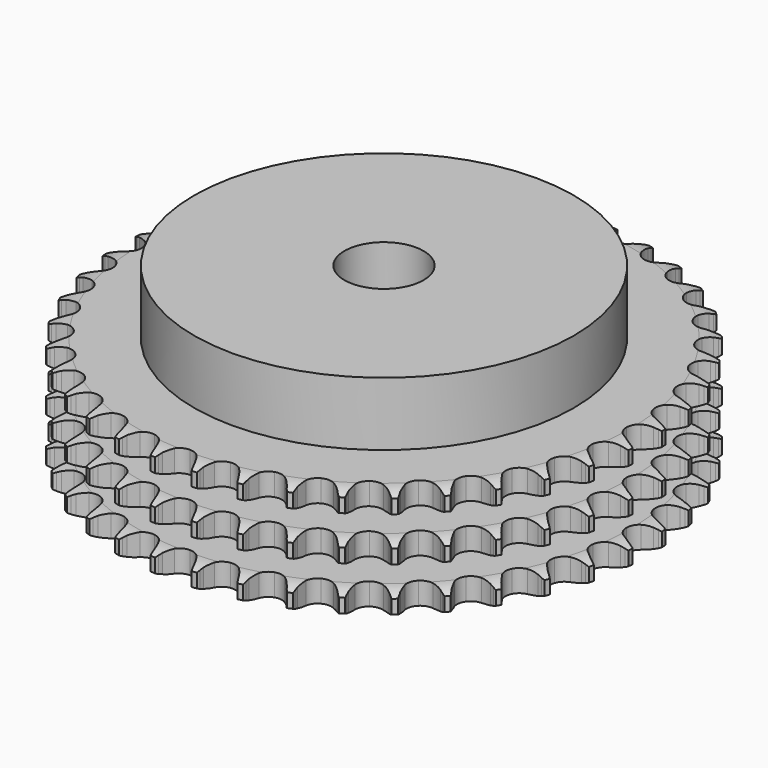
from build123d import *

# Parameters (mm, degrees)
PAD_DEPTH         = 34.9
SKETCH001_R       = 60
PAD001_DEPTH      = 55
SKETCH002_R       = 12.5
POCKET_DEPTH      = 0.001
POCKET_DEPTH_BACK = 55.001


with BuildPart() as part:
    # Sprocket → Pad (new body)
    with BuildSketch(Plane.XY):
        with BuildLine():
            ThreePointArc((-6.649012, 84.48371), (-5.927726, 83.470306), (-5.400458, 82.343705))
            Line((-5.400458, 82.343705), (-4.98558, 81.197617))
            ThreePointArc((-4.98558, 81.197617), (-4.32953, 79.727559), (-3.46814, 78.367604))
            ThreePointArc((-3.46814, 78.367604), (-1.941893, 77.081246), (0, 76.619517))
            ThreePointArc((0, 76.619517), (1.941893, 77.081246), (3.46814, 78.367604))
            ThreePointArc((3.46814, 78.367604), (4.32953, 79.727559), (4.98558, 81.197617))
            Line((4.98558, 81.197617), (5.400458, 82.343705))
            ThreePointArc((5.400458, 82.343705), (5.927726, 83.470306), (6.649012, 84.48371))
            ThreePointArc((6.649012, 84.48371), (7.202887, 83.369949), (7.547424, 82.174735))
            Line((7.547424, 82.174735), (7.777907, 80.977856))
            ThreePointArc((7.777907, 80.977856), (8.195912, 79.423268), (8.833953, 77.945305))
            ThreePointArc((8.833953, 77.945305), (10.140178, 76.436027), (11.985933, 75.676204))
            ThreePointArc((11.985933, 75.676204), (13.976149, 75.828469), (15.684836, 76.860232))
            Line((15.684836, 76.860232), (17.626305, 79.418023))
            ThreePointArc((17.626305, 79.418023), (17.906205, 79.959636), (18.215363, 80.4851))
            ThreePointArc((18.215363, 80.4851), (18.912379, 81.515347), (19.783316, 82.403441))
            ThreePointArc((19.783316, 82.403441), (20.15614, 81.216746), (20.309464, 79.98235))
            Line((20.309464, 79.98235), (20.349875, 78.764151))
            ThreePointArc((20.349875, 78.764151), (20.519543, 77.163313), (20.918524, 75.603734))
            ThreePointArc((20.918524, 75.603734), (21.972565, 73.9087), (23.676733, 72.869491))
            ThreePointArc((23.676733, 72.869491), (25.666265, 72.708543), (27.515318, 73.460306))
            Line((27.515318, 73.460306), (29.833012, 75.682894))
            ThreePointArc((29.833012, 75.682894), (30.194193, 76.174053), (30.581745, 76.644684))
            ThreePointArc((30.581745, 76.644684), (31.431346, 77.55321), (32.430489, 78.294125))
            ThreePointArc((32.430489, 78.294125), (32.613083, 77.063719), (32.571417, 75.820535))
            Line((32.571417, 75.820535), (32.420763, 74.611012))
            ThreePointArc((32.420763, 74.611012), (32.337915, 73.003341), (32.488012, 71.400549))
            ThreePointArc((32.488012, 71.400549), (33.263914, 69.561494), (34.784533, 68.26849))
            ThreePointArc((34.784533, 68.26849), (36.724393, 67.798292), (38.668283, 68.251544))
            Line((38.668283, 68.251544), (41.305131, 70.084201))
            ThreePointArc((41.305131, 70.084201), (41.7387, 70.512812), (42.195103, 70.917022))
            ThreePointArc((42.195103, 70.917022), (43.176369, 71.681456), (44.279115, 72.256949))
            ThreePointArc((44.279115, 72.256949), (44.266984, 71.013126), (44.031353, 69.791766))
            Line((44.031353, 69.791766), (43.693343, 68.620702))
            ThreePointArc((43.693343, 68.620702), (43.36002, 67.045784), (43.257538, 65.439245))
            ThreePointArc((43.257538, 65.439245), (43.736195, 63.501454), (45.035822, 61.986492))
            ThreePointArc((45.035822, 61.986492), (46.878245, 61.218622), (48.869106, 61.362202))
            Line((48.869106, 61.362202), (51.76018, 62.759802))
            ThreePointArc((51.76018, 62.759802), (52.255461, 63.115311), (52.769478, 63.443147))
            ThreePointArc((52.769478, 63.443147), (53.858246, 64.044666), (55.037443, 64.440566))
            ThreePointArc((55.037443, 64.440566), (54.830884, 63.213955), (54.407092, 62.044493))
            Line((54.407092, 62.044493), (53.890048, 60.940723))
            ThreePointArc((53.890048, 60.940723), (53.314458, 59.437338), (52.961919, 57.866609))
            ThreePointArc((52.961919, 57.866609), (53.131546, 55.877798), (54.17818, 54.17818))
            ThreePointArc((54.17818, 54.17818), (55.877798, 53.131546), (57.866609, 52.961919))
            Line((57.866609, 52.961919), (60.940723, 53.890048))
            ThreePointArc((60.940723, 53.890048), (61.48552, 54.163701), (62.044493, 54.407092))
            ThreePointArc((62.044493, 54.407092), (63.213955, 54.830884), (64.440566, 55.037443))
            ThreePointArc((64.440566, 55.037443), (64.044666, 53.858246), (63.443147, 52.769478))
            Line((63.443147, 52.769478), (62.759802, 51.76018))
            ThreePointArc((62.759802, 51.76018), (61.956116, 50.365347), (61.362202, 48.869106))
            ThreePointArc((61.362202, 48.869106), (61.218622, 46.878245), (61.986492, 45.035822))
            ThreePointArc((61.986492, 45.035822), (63.501454, 43.736195), (65.439245, 43.257538))
            Line((65.439245, 43.257538), (68.620702, 43.693343))
            ThreePointArc((68.620702, 43.693343), (69.2016, 43.878402), (69.791766, 44.031353))
            ThreePointArc((69.791766, 44.031353), (71.013126, 44.266984), (72.256949, 44.279115))
            ThreePointArc((72.256949, 44.279115), (71.681456, 43.176369), (70.917022, 42.195103))
            Line((70.917022, 42.195103), (70.084201, 41.305131))
            ThreePointArc((70.084201, 41.305131), (69.07221, 40.053194), (68.251544, 38.668283))
            ThreePointArc((68.251544, 38.668283), (67.798292, 36.724393), (68.26849, 34.784533))
            ThreePointArc((68.26849, 34.784533), (69.561494, 33.263914), (71.400549, 32.488012))
            Line((71.400549, 32.488012), (74.611012, 32.420763))
            ThreePointArc((74.611012, 32.420763), (75.213708, 32.512671), (75.820535, 32.571417))
            ThreePointArc((75.820535, 32.571417), (77.063719, 32.613083), (78.294125, 32.430489))
            ThreePointArc((78.294125, 32.430489), (77.55321, 31.431346), (76.644684, 30.581745))
            Line((76.644684, 30.581745), (75.682894, 29.833012))
            ThreePointArc((75.682894, 29.833012), (74.487516, 28.754798), (73.460306, 27.515318))
            ThreePointArc((73.460306, 27.515318), (72.708543, 25.666265), (72.869491, 23.676733))
            ThreePointArc((72.869491, 23.676733), (73.9087, 21.972565), (75.603734, 20.918524))
            Line((75.603734, 20.918524), (78.764151, 20.349875))
            ThreePointArc((78.764151, 20.349875), (79.373805, 20.346369), (79.98235, 20.309464))
            ThreePointArc((79.98235, 20.309464), (81.216746, 20.15614), (82.403441, 19.783316))
            ThreePointArc((82.403441, 19.783316), (81.515347, 18.912379), (80.4851, 18.215363))
            Line((80.4851, 18.215363), (79.418023, 17.626305))
            ThreePointArc((79.418023, 17.626305), (78.068693, 16.748364), (76.860232, 15.684836))
            ThreePointArc((76.860232, 15.684836), (75.828469, 13.976149), (75.676204, 11.985933))
            ThreePointArc((75.676204, 11.985933), (76.436027, 10.140178), (77.945305, 8.833953))
            Line((77.945305, 8.833953), (80.977856, 7.777907))
            ThreePointArc((80.977856, 7.777907), (81.579455, 7.679073), (82.174735, 7.547424))
            ThreePointArc((82.174735, 7.547424), (83.369949, 7.202887), (84.48371, 6.649012))
            ThreePointArc((84.48371, 6.649012), (83.470306, 5.927726), (82.343705, 5.400458))
            Line((82.343705, 5.400458), (81.197617, 4.98558))
            ThreePointArc((81.197617, 4.98558), (79.727559, 4.32953), (78.367604, 3.46814))
            ThreePointArc((78.367604, 3.46814), (77.081246, 1.941893), (76.619517, 0))
            ThreePointArc((76.619517, 0), (77.081246, -1.941893), (78.367604, -3.46814))
            Line((78.367604, -3.46814), (81.197617, -4.98558))
            ThreePointArc((81.197617, -4.98558), (81.776348, -5.177307), (82.343705, -5.400458))
            ThreePointArc((82.343705, -5.400458), (83.470306, -5.927726), (84.48371, -6.649012))
            ThreePointArc((84.48371, -6.649012), (83.369949, -7.202887), (82.174735, -7.547424))
            Line((82.174735, -7.547424), (80.977856, -7.777907))
            ThreePointArc((80.977856, -7.777907), (79.423268, -8.195912), (77.945305, -8.833953))
            ThreePointArc((77.945305, -8.833953), (76.436027, -10.140178), (75.676204, -11.985933))
            ThreePointArc((75.676204, -11.985933), (75.828469, -13.976149), (76.860232, -15.684836))
            Line((76.860232, -15.684836), (79.418023, -17.626305))
            ThreePointArc((79.418023, -17.626305), (79.959636, -17.906205), (80.4851, -18.215363))
            ThreePointArc((80.4851, -18.215363), (81.515347, -18.912379), (82.403441, -19.783316))
            ThreePointArc((82.403441, -19.783316), (81.216746, -20.15614), (79.98235, -20.309464))
            Line((79.98235, -20.309464), (78.764151, -20.349875))
            ThreePointArc((78.764151, -20.349875), (77.163313, -20.519543), (75.603734, -20.918524))
            ThreePointArc((75.603734, -20.918524), (73.9087, -21.972565), (72.869491, -23.676733))
            ThreePointArc((72.869491, -23.676733), (72.708543, -25.666265), (73.460306, -27.515318))
            Line((73.460306, -27.515318), (75.682894, -29.833012))
            ThreePointArc((75.682894, -29.833012), (76.174053, -30.194193), (76.644684, -30.581745))
            ThreePointArc((76.644684, -30.581745), (77.55321, -31.431346), (78.294125, -32.430489))
            ThreePointArc((78.294125, -32.430489), (77.063719, -32.613083), (75.820535, -32.571417))
            Line((75.820535, -32.571417), (74.611012, -32.420763))
            ThreePointArc((74.611012, -32.420763), (73.003341, -32.337915), (71.400549, -32.488012))
            ThreePointArc((71.400549, -32.488012), (69.561494, -33.263914), (68.26849, -34.784533))
            ThreePointArc((68.26849, -34.784533), (67.798292, -36.724393), (68.251544, -38.668283))
            Line((68.251544, -38.668283), (70.084201, -41.305131))
            ThreePointArc((70.084201, -41.305131), (70.512812, -41.7387), (70.917022, -42.195103))
            ThreePointArc((70.917022, -42.195103), (71.681456, -43.176369), (72.256949, -44.279115))
            ThreePointArc((72.256949, -44.279115), (71.013126, -44.266984), (69.791766, -44.031353))
            Line((69.791766, -44.031353), (68.620702, -43.693343))
            ThreePointArc((68.620702, -43.693343), (67.045784, -43.36002), (65.439245, -43.257538))
            ThreePointArc((65.439245, -43.257538), (63.501454, -43.736195), (61.986492, -45.035822))
            ThreePointArc((61.986492, -45.035822), (61.218622, -46.878245), (61.362202, -48.869106))
            Line((61.362202, -48.869106), (62.759802, -51.76018))
            ThreePointArc((62.759802, -51.76018), (63.115311, -52.255461), (63.443147, -52.769478))
            ThreePointArc((63.443147, -52.769478), (64.044666, -53.858246), (64.440566, -55.037443))
            ThreePointArc((64.440566, -55.037443), (63.213955, -54.830884), (62.044493, -54.407092))
            Line((62.044493, -54.407092), (60.940723, -53.890048))
            ThreePointArc((60.940723, -53.890048), (59.437338, -53.314458), (57.866609, -52.961919))
            ThreePointArc((57.866609, -52.961919), (55.877798, -53.131546), (54.17818, -54.17818))
            ThreePointArc((54.17818, -54.17818), (53.131546, -55.877798), (52.961919, -57.866609))
            Line((52.961919, -57.866609), (53.890048, -60.940723))
            ThreePointArc((53.890048, -60.940723), (54.163701, -61.48552), (54.407092, -62.044493))
            ThreePointArc((54.407092, -62.044493), (54.830884, -63.213955), (55.037443, -64.440566))
            ThreePointArc((55.037443, -64.440566), (53.858246, -64.044666), (52.769478, -63.443147))
            Line((52.769478, -63.443147), (51.76018, -62.759802))
            ThreePointArc((51.76018, -62.759802), (50.365347, -61.956116), (48.869106, -61.362202))
            ThreePointArc((48.869106, -61.362202), (46.878245, -61.218622), (45.035822, -61.986492))
            ThreePointArc((45.035822, -61.986492), (43.736195, -63.501454), (43.257538, -65.439245))
            Line((43.257538, -65.439245), (43.693343, -68.620702))
            ThreePointArc((43.693343, -68.620702), (43.878402, -69.2016), (44.031353, -69.791766))
            ThreePointArc((44.031353, -69.791766), (44.266984, -71.013126), (44.279115, -72.256949))
            ThreePointArc((44.279115, -72.256949), (43.176369, -71.681456), (42.195103, -70.917022))
            Line((42.195103, -70.917022), (41.305131, -70.084201))
            ThreePointArc((41.305131, -70.084201), (40.053194, -69.07221), (38.668283, -68.251544))
            ThreePointArc((38.668283, -68.251544), (36.724393, -67.798292), (34.784533, -68.26849))
            ThreePointArc((34.784533, -68.26849), (33.263914, -69.561494), (32.488012, -71.400549))
            Line((32.488012, -71.400549), (32.420763, -74.611012))
            ThreePointArc((32.420763, -74.611012), (32.512671, -75.213708), (32.571417, -75.820535))
            ThreePointArc((32.571417, -75.820535), (32.613083, -77.063719), (32.430489, -78.294125))
            ThreePointArc((32.430489, -78.294125), (31.431346, -77.55321), (30.581745, -76.644684))
            Line((30.581745, -76.644684), (29.833012, -75.682894))
            ThreePointArc((29.833012, -75.682894), (28.754798, -74.487516), (27.515318, -73.460306))
            ThreePointArc((27.515318, -73.460306), (25.666265, -72.708543), (23.676733, -72.869491))
            ThreePointArc((23.676733, -72.869491), (21.972565, -73.9087), (20.918524, -75.603734))
            Line((20.918524, -75.603734), (20.349875, -78.764151))
            ThreePointArc((20.349875, -78.764151), (20.346369, -79.373805), (20.309464, -79.98235))
            ThreePointArc((20.309464, -79.98235), (20.15614, -81.216746), (19.783316, -82.403441))
            ThreePointArc((19.783316, -82.403441), (18.912379, -81.515347), (18.215363, -80.4851))
            Line((18.215363, -80.4851), (17.626305, -79.418023))
            ThreePointArc((17.626305, -79.418023), (16.748364, -78.068693), (15.684836, -76.860232))
            ThreePointArc((15.684836, -76.860232), (13.976149, -75.828469), (11.985933, -75.676204))
            ThreePointArc((11.985933, -75.676204), (10.140178, -76.436027), (8.833953, -77.945305))
            Line((8.833953, -77.945305), (7.777907, -80.977856))
            ThreePointArc((7.777907, -80.977856), (7.679073, -81.579455), (7.547424, -82.174735))
            ThreePointArc((7.547424, -82.174735), (7.202887, -83.369949), (6.649012, -84.48371))
            ThreePointArc((6.649012, -84.48371), (5.927726, -83.470306), (5.400458, -82.343705))
            Line((5.400458, -82.343705), (4.98558, -81.197617))
            ThreePointArc((4.98558, -81.197617), (4.32953, -79.727559), (3.46814, -78.367604))
            ThreePointArc((3.46814, -78.367604), (1.941893, -77.081246), (0, -76.619517))
            ThreePointArc((0, -76.619517), (-1.941893, -77.081246), (-3.46814, -78.367604))
            Line((-3.46814, -78.367604), (-4.98558, -81.197617))
            ThreePointArc((-4.98558, -81.197617), (-5.177307, -81.776348), (-5.400458, -82.343705))
            ThreePointArc((-5.400458, -82.343705), (-5.927726, -83.470306), (-6.649012, -84.48371))
            ThreePointArc((-6.649012, -84.48371), (-7.202887, -83.369949), (-7.547424, -82.174735))
            Line((-7.547424, -82.174735), (-7.777907, -80.977856))
            ThreePointArc((-7.777907, -80.977856), (-8.195912, -79.423268), (-8.833953, -77.945305))
            ThreePointArc((-8.833953, -77.945305), (-10.140178, -76.436027), (-11.985933, -75.676204))
            ThreePointArc((-11.985933, -75.676204), (-13.976149, -75.828469), (-15.684836, -76.860232))
            Line((-15.684836, -76.860232), (-17.626305, -79.418023))
            ThreePointArc((-17.626305, -79.418023), (-17.906205, -79.959636), (-18.215363, -80.4851))
            ThreePointArc((-18.215363, -80.4851), (-18.912379, -81.515347), (-19.783316, -82.403441))
            ThreePointArc((-19.783316, -82.403441), (-20.15614, -81.216746), (-20.309464, -79.98235))
            Line((-20.309464, -79.98235), (-20.349875, -78.764151))
            ThreePointArc((-20.349875, -78.764151), (-20.519543, -77.163313), (-20.918524, -75.603734))
            ThreePointArc((-20.918524, -75.603734), (-21.972565, -73.9087), (-23.676733, -72.869491))
            ThreePointArc((-23.676733, -72.869491), (-25.666265, -72.708543), (-27.515318, -73.460306))
            Line((-27.515318, -73.460306), (-29.833012, -75.682894))
            ThreePointArc((-29.833012, -75.682894), (-30.194193, -76.174053), (-30.581745, -76.644684))
            ThreePointArc((-30.581745, -76.644684), (-31.431346, -77.55321), (-32.430489, -78.294125))
            ThreePointArc((-32.430489, -78.294125), (-32.613083, -77.063719), (-32.571417, -75.820535))
            Line((-32.571417, -75.820535), (-32.420763, -74.611012))
            ThreePointArc((-32.420763, -74.611012), (-32.337915, -73.003341), (-32.488012, -71.400549))
            ThreePointArc((-32.488012, -71.400549), (-33.263914, -69.561494), (-34.784533, -68.26849))
            ThreePointArc((-34.784533, -68.26849), (-36.724393, -67.798292), (-38.668283, -68.251544))
            Line((-38.668283, -68.251544), (-41.305131, -70.084201))
            ThreePointArc((-41.305131, -70.084201), (-41.7387, -70.512812), (-42.195103, -70.917022))
            ThreePointArc((-42.195103, -70.917022), (-43.176369, -71.681456), (-44.279115, -72.256949))
            ThreePointArc((-44.279115, -72.256949), (-44.266984, -71.013126), (-44.031353, -69.791766))
            Line((-44.031353, -69.791766), (-43.693343, -68.620702))
            ThreePointArc((-43.693343, -68.620702), (-43.36002, -67.045784), (-43.257538, -65.439245))
            ThreePointArc((-43.257538, -65.439245), (-43.736195, -63.501454), (-45.035822, -61.986492))
            ThreePointArc((-45.035822, -61.986492), (-46.878245, -61.218622), (-48.869106, -61.362202))
            Line((-48.869106, -61.362202), (-51.76018, -62.759802))
            ThreePointArc((-51.76018, -62.759802), (-52.255461, -63.115311), (-52.769478, -63.443147))
            ThreePointArc((-52.769478, -63.443147), (-53.858246, -64.044666), (-55.037443, -64.440566))
            ThreePointArc((-55.037443, -64.440566), (-54.830884, -63.213955), (-54.407092, -62.044493))
            Line((-54.407092, -62.044493), (-53.890048, -60.940723))
            ThreePointArc((-53.890048, -60.940723), (-53.314458, -59.437338), (-52.961919, -57.866609))
            ThreePointArc((-52.961919, -57.866609), (-53.131546, -55.877798), (-54.17818, -54.17818))
            ThreePointArc((-54.17818, -54.17818), (-55.877798, -53.131546), (-57.866609, -52.961919))
            Line((-57.866609, -52.961919), (-60.940723, -53.890048))
            ThreePointArc((-60.940723, -53.890048), (-61.48552, -54.163701), (-62.044493, -54.407092))
            ThreePointArc((-62.044493, -54.407092), (-63.213955, -54.830884), (-64.440566, -55.037443))
            ThreePointArc((-64.440566, -55.037443), (-64.044666, -53.858246), (-63.443147, -52.769478))
            Line((-63.443147, -52.769478), (-62.759802, -51.76018))
            ThreePointArc((-62.759802, -51.76018), (-61.956116, -50.365347), (-61.362202, -48.869106))
            ThreePointArc((-61.362202, -48.869106), (-61.218622, -46.878245), (-61.986492, -45.035822))
            ThreePointArc((-61.986492, -45.035822), (-63.501454, -43.736195), (-65.439245, -43.257538))
            Line((-65.439245, -43.257538), (-68.620702, -43.693343))
            ThreePointArc((-68.620702, -43.693343), (-69.2016, -43.878402), (-69.791766, -44.031353))
            ThreePointArc((-69.791766, -44.031353), (-71.013126, -44.266984), (-72.256949, -44.279115))
            ThreePointArc((-72.256949, -44.279115), (-71.681456, -43.176369), (-70.917022, -42.195103))
            Line((-70.917022, -42.195103), (-70.084201, -41.305131))
            ThreePointArc((-70.084201, -41.305131), (-69.07221, -40.053194), (-68.251544, -38.668283))
            ThreePointArc((-68.251544, -38.668283), (-67.798292, -36.724393), (-68.26849, -34.784533))
            ThreePointArc((-68.26849, -34.784533), (-69.561494, -33.263914), (-71.400549, -32.488012))
            Line((-71.400549, -32.488012), (-74.611012, -32.420763))
            ThreePointArc((-74.611012, -32.420763), (-75.213708, -32.512671), (-75.820535, -32.571417))
            ThreePointArc((-75.820535, -32.571417), (-77.063719, -32.613083), (-78.294125, -32.430489))
            ThreePointArc((-78.294125, -32.430489), (-77.55321, -31.431346), (-76.644684, -30.581745))
            Line((-76.644684, -30.581745), (-75.682894, -29.833012))
            ThreePointArc((-75.682894, -29.833012), (-74.487516, -28.754798), (-73.460306, -27.515318))
            ThreePointArc((-73.460306, -27.515318), (-72.708543, -25.666265), (-72.869491, -23.676733))
            ThreePointArc((-72.869491, -23.676733), (-73.9087, -21.972565), (-75.603734, -20.918524))
            Line((-75.603734, -20.918524), (-78.764151, -20.349875))
            ThreePointArc((-78.764151, -20.349875), (-79.373805, -20.346369), (-79.98235, -20.309464))
            ThreePointArc((-79.98235, -20.309464), (-81.216746, -20.15614), (-82.403441, -19.783316))
            ThreePointArc((-82.403441, -19.783316), (-81.515347, -18.912379), (-80.4851, -18.215363))
            Line((-80.4851, -18.215363), (-79.418023, -17.626305))
            ThreePointArc((-79.418023, -17.626305), (-78.068693, -16.748364), (-76.860232, -15.684836))
            ThreePointArc((-76.860232, -15.684836), (-75.828469, -13.976149), (-75.676204, -11.985933))
            ThreePointArc((-75.676204, -11.985933), (-76.436027, -10.140178), (-77.945305, -8.833953))
            Line((-77.945305, -8.833953), (-80.977856, -7.777907))
            ThreePointArc((-80.977856, -7.777907), (-81.579455, -7.679073), (-82.174735, -7.547424))
            ThreePointArc((-82.174735, -7.547424), (-83.369949, -7.202887), (-84.48371, -6.649012))
            ThreePointArc((-84.48371, -6.649012), (-83.470306, -5.927726), (-82.343705, -5.400458))
            Line((-82.343705, -5.400458), (-81.197617, -4.98558))
            ThreePointArc((-81.197617, -4.98558), (-79.727559, -4.32953), (-78.367604, -3.46814))
            ThreePointArc((-78.367604, -3.46814), (-77.081246, -1.941893), (-76.619517, 0))
            ThreePointArc((-76.619517, 0), (-77.081246, 1.941893), (-78.367604, 3.46814))
            Line((-78.367604, 3.46814), (-81.197617, 4.98558))
            ThreePointArc((-81.197617, 4.98558), (-81.776348, 5.177307), (-82.343705, 5.400458))
            ThreePointArc((-82.343705, 5.400458), (-83.470306, 5.927726), (-84.48371, 6.649012))
            ThreePointArc((-84.48371, 6.649012), (-83.369949, 7.202887), (-82.174735, 7.547424))
            Line((-82.174735, 7.547424), (-80.977856, 7.777907))
            ThreePointArc((-80.977856, 7.777907), (-79.423268, 8.195912), (-77.945305, 8.833953))
            ThreePointArc((-77.945305, 8.833953), (-76.436027, 10.140178), (-75.676204, 11.985933))
            ThreePointArc((-75.676204, 11.985933), (-75.828469, 13.976149), (-76.860232, 15.684836))
            Line((-76.860232, 15.684836), (-79.418023, 17.626305))
            ThreePointArc((-79.418023, 17.626305), (-79.959636, 17.906205), (-80.4851, 18.215363))
            ThreePointArc((-80.4851, 18.215363), (-81.515347, 18.912379), (-82.403441, 19.783316))
            ThreePointArc((-82.403441, 19.783316), (-81.216746, 20.15614), (-79.98235, 20.309464))
            Line((-79.98235, 20.309464), (-78.764151, 20.349875))
            ThreePointArc((-78.764151, 20.349875), (-77.163313, 20.519543), (-75.603734, 20.918524))
            ThreePointArc((-75.603734, 20.918524), (-73.9087, 21.972565), (-72.869491, 23.676733))
            ThreePointArc((-72.869491, 23.676733), (-72.708543, 25.666265), (-73.460306, 27.515318))
            Line((-73.460306, 27.515318), (-75.682894, 29.833012))
            ThreePointArc((-75.682894, 29.833012), (-76.174053, 30.194193), (-76.644684, 30.581745))
            ThreePointArc((-76.644684, 30.581745), (-77.55321, 31.431346), (-78.294125, 32.430489))
            ThreePointArc((-78.294125, 32.430489), (-77.063719, 32.613083), (-75.820535, 32.571417))
            Line((-75.820535, 32.571417), (-74.611012, 32.420763))
            ThreePointArc((-74.611012, 32.420763), (-73.003341, 32.337915), (-71.400549, 32.488012))
            ThreePointArc((-71.400549, 32.488012), (-69.561494, 33.263914), (-68.26849, 34.784533))
            ThreePointArc((-68.26849, 34.784533), (-67.798292, 36.724393), (-68.251544, 38.668283))
            Line((-68.251544, 38.668283), (-70.084201, 41.305131))
            ThreePointArc((-70.084201, 41.305131), (-70.512812, 41.7387), (-70.917022, 42.195103))
            ThreePointArc((-70.917022, 42.195103), (-71.681456, 43.176369), (-72.256949, 44.279115))
            ThreePointArc((-72.256949, 44.279115), (-71.013126, 44.266984), (-69.791766, 44.031353))
            Line((-69.791766, 44.031353), (-68.620702, 43.693343))
            ThreePointArc((-68.620702, 43.693343), (-67.045784, 43.36002), (-65.439245, 43.257538))
            ThreePointArc((-65.439245, 43.257538), (-63.501454, 43.736195), (-61.986492, 45.035822))
            ThreePointArc((-61.986492, 45.035822), (-61.218622, 46.878245), (-61.362202, 48.869106))
            Line((-61.362202, 48.869106), (-62.759802, 51.76018))
            ThreePointArc((-62.759802, 51.76018), (-63.115311, 52.255461), (-63.443147, 52.769478))
            ThreePointArc((-63.443147, 52.769478), (-64.044666, 53.858246), (-64.440566, 55.037443))
            ThreePointArc((-64.440566, 55.037443), (-63.213955, 54.830884), (-62.044493, 54.407092))
            Line((-62.044493, 54.407092), (-60.940723, 53.890048))
            ThreePointArc((-60.940723, 53.890048), (-59.437338, 53.314458), (-57.866609, 52.961919))
            ThreePointArc((-57.866609, 52.961919), (-55.877798, 53.131546), (-54.17818, 54.17818))
            ThreePointArc((-54.17818, 54.17818), (-53.131546, 55.877798), (-52.961919, 57.866609))
            Line((-52.961919, 57.866609), (-53.890048, 60.940723))
            ThreePointArc((-53.890048, 60.940723), (-54.163701, 61.48552), (-54.407092, 62.044493))
            ThreePointArc((-54.407092, 62.044493), (-54.830884, 63.213955), (-55.037443, 64.440566))
            ThreePointArc((-55.037443, 64.440566), (-53.858246, 64.044666), (-52.769478, 63.443147))
            Line((-52.769478, 63.443147), (-51.76018, 62.759802))
            ThreePointArc((-51.76018, 62.759802), (-50.365347, 61.956116), (-48.869106, 61.362202))
            ThreePointArc((-48.869106, 61.362202), (-46.878245, 61.218622), (-45.035822, 61.986492))
            ThreePointArc((-45.035822, 61.986492), (-43.736195, 63.501454), (-43.257538, 65.439245))
            Line((-43.257538, 65.439245), (-43.693343, 68.620702))
            ThreePointArc((-43.693343, 68.620702), (-43.878402, 69.2016), (-44.031353, 69.791766))
            ThreePointArc((-44.031353, 69.791766), (-44.266984, 71.013126), (-44.279115, 72.256949))
            ThreePointArc((-44.279115, 72.256949), (-43.176369, 71.681456), (-42.195103, 70.917022))
            Line((-42.195103, 70.917022), (-41.305131, 70.084201))
            ThreePointArc((-41.305131, 70.084201), (-40.053194, 69.07221), (-38.668283, 68.251544))
            ThreePointArc((-38.668283, 68.251544), (-36.724393, 67.798292), (-34.784533, 68.26849))
            ThreePointArc((-34.784533, 68.26849), (-33.263914, 69.561494), (-32.488012, 71.400549))
            Line((-32.488012, 71.400549), (-32.420763, 74.611012))
            ThreePointArc((-32.420763, 74.611012), (-32.512671, 75.213708), (-32.571417, 75.820535))
            ThreePointArc((-32.571417, 75.820535), (-32.613083, 77.063719), (-32.430489, 78.294125))
            ThreePointArc((-32.430489, 78.294125), (-31.431346, 77.55321), (-30.581745, 76.644684))
            Line((-30.581745, 76.644684), (-29.833012, 75.682894))
            ThreePointArc((-29.833012, 75.682894), (-28.754798, 74.487516), (-27.515318, 73.460306))
            ThreePointArc((-27.515318, 73.460306), (-25.666265, 72.708543), (-23.676733, 72.869491))
            ThreePointArc((-23.676733, 72.869491), (-21.972565, 73.9087), (-20.918524, 75.603734))
            Line((-20.918524, 75.603734), (-20.349875, 78.764151))
            ThreePointArc((-20.349875, 78.764151), (-20.346369, 79.373805), (-20.309464, 79.98235))
            ThreePointArc((-20.309464, 79.98235), (-20.15614, 81.216746), (-19.783316, 82.403441))
            ThreePointArc((-19.783316, 82.403441), (-18.912379, 81.515347), (-18.215363, 80.4851))
            Line((-18.215363, 80.4851), (-17.626305, 79.418023))
            ThreePointArc((-17.626305, 79.418023), (-16.748364, 78.068693), (-15.684836, 76.860232))
            ThreePointArc((-15.684836, 76.860232), (-13.976149, 75.828469), (-11.985933, 75.676204))
            ThreePointArc((-11.985933, 75.676204), (-10.140178, 76.436027), (-8.833953, 77.945305))
            Line((-8.833953, 77.945305), (-7.777907, 80.977856))
            ThreePointArc((-7.777907, 80.977856), (-7.679073, 81.579455), (-7.547424, 82.174735))
            ThreePointArc((-7.547424, 82.174735), (-7.202887, 83.369949), (-6.649012, 84.48371))
        make_face()
    extrude(amount=PAD_DEPTH)

    # Sketch → Groove (revolve, cut)
    with BuildSketch(Plane.XZ):
        with BuildLine():
            ThreePointArc((77.733431, 0), (80.64032, 0.329167), (83.4, 1.3))
            Line((83.4, 1.3), (83.4, 5.7))
            ThreePointArc((83.4, 5.7), (80.64032, 6.670833), (77.733431, 7))
            Line((60, 7), (77.733431, 7))
            Line((60, 7), (60, 13.95))
            Line((60, 13.95), (77.733431, 13.95))
            ThreePointArc((77.733431, 13.95), (80.64032, 14.279167), (83.4, 15.25))
            Line((83.4, 19.65), (83.4, 15.25))
            ThreePointArc((83.4, 19.65), (80.64032, 20.620833), (77.733431, 20.95))
            Line((60, 20.95), (77.733431, 20.95))
            Line((60, 27.9), (60, 20.95))
            Line((77.733431, 27.9), (60, 27.9))
            ThreePointArc((77.733431, 27.9), (80.64032, 28.229167), (83.4, 29.2))
            Line((83.4, 29.2), (83.4, 33.6))
            ThreePointArc((83.4, 33.6), (80.64032, 34.570833), (77.733431, 34.9))
            Line((77.733431, 34.9), (93.4, 34.9))
            Line((93.4, 34.9), (93.4, 0))
            Line((77.733431, 0), (93.4, 0))
        make_face()
    revolve(axis=Axis((0, 0, 0), (0, 0, 1)), mode=Mode.SUBTRACT)

    # Sketch001 → Pad001 (join)
    with BuildSketch(Plane.XY):
        Circle(SKETCH001_R)
    extrude(amount=PAD001_DEPTH)

    # Sketch002 → Pocket (cut, two sides)
    with BuildSketch(Plane.XY) as pocket_sk:
        Circle(SKETCH002_R)
    extrude(amount=-POCKET_DEPTH, mode=Mode.SUBTRACT)
    extrude(pocket_sk.sketch, amount=POCKET_DEPTH_BACK, mode=Mode.SUBTRACT)


solid = part.part
